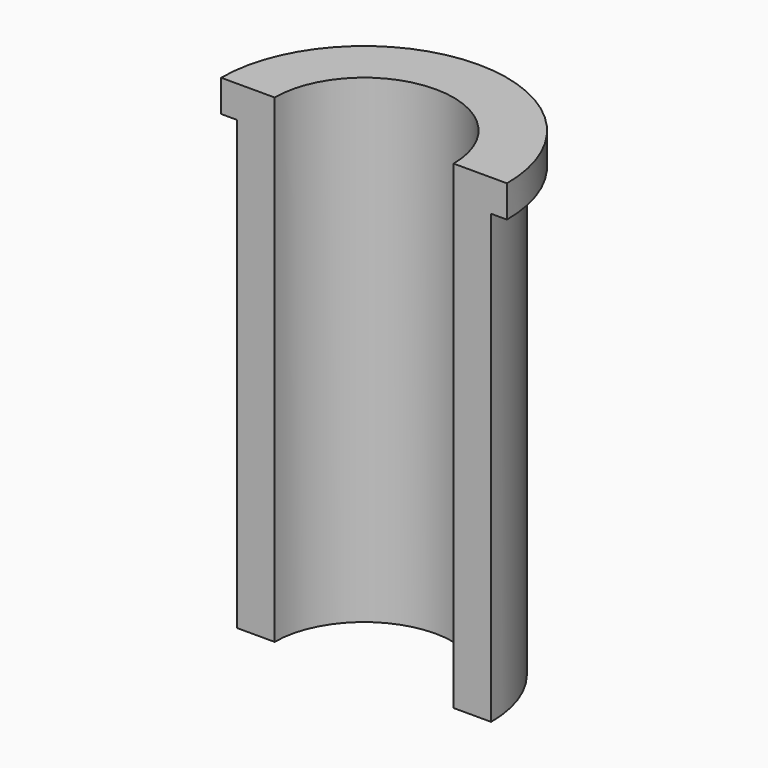
from build123d import *

# Parameters (mm, degrees)
F0_R          = 56.8109783896
F1_DEPTH      = 12.7
F2_R          = 50.5287562703
F3_DEPTH      = 177.8
F4_R          = 35.56
F5_DEPTH      = 203.2
F6_W          = 133.571790182
F6_H          = 62.377858907
F7_DEPTH      = 203.2
F7_DEPTH_BACK = 25.4


with BuildPart() as f1:
    # F0 (on Top) → F1 (new body)
    with BuildSketch(Plane.XY):
        Circle(F0_R)
    extrude(amount=F1_DEPTH)

    # F2 (on face) → F3 (join)
    with BuildSketch(Plane(origin=(0, 0, 0), x_dir=(1, 0, 0), z_dir=(0, 0, -1))):
        Circle(F2_R)
    extrude(amount=F3_DEPTH)

    # F4 (on face) → F5 (cut)
    with BuildSketch(Plane.XY.offset(12.7)):
        Circle(F4_R)
    extrude(amount=-F5_DEPTH, mode=Mode.SUBTRACT)

    # F6 (on Top) → F7 (cut, two sides)
    with BuildSketch(Plane.XY) as f7_sk:
        with Locations((2.2456042352, -31.1889294535)):
            Rectangle(F6_W, F6_H)
    extrude(amount=-F7_DEPTH, mode=Mode.SUBTRACT)
    extrude(f7_sk.sketch, amount=F7_DEPTH_BACK, mode=Mode.SUBTRACT)


solid = f1.part
